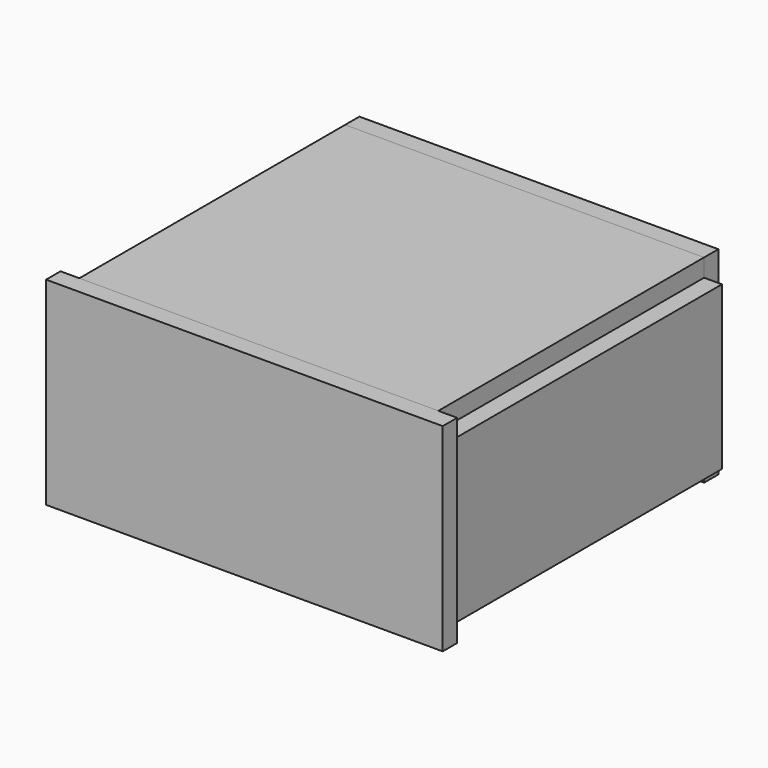
from build123d import *

# Parameters (mm, degrees)
F0_W     = 400
F0_H     = 200
F0_R     = 73
F1_DEPTH = 18
F2_W     = 362
F2_H     = 18
F3_DEPTH = 335
F4_W     = 335
F4_H     = 164
F5_DEPTH = 18
F6_W     = 362
F6_H     = 200
F7_DEPTH = 18
F8_W     = 400
F8_H     = 200
F9_DEPTH = 0.2


with BuildPart() as f1:
    # F0 (on Front) → F1 (new body)
    with BuildSketch(Plane.XZ):
        Rectangle(F0_W, F0_H)
        Circle(F0_R, mode=Mode.SUBTRACT)
    extrude(amount=F1_DEPTH)


with BuildPart() as f3:
    # F2 (on face) → F3 (new body)
    with BuildSketch(Plane(origin=(0, 0, 0), x_dir=(-1, 0, 0), z_dir=(0, 1, 0))):
        with Locations((0, 91)):
            Rectangle(F2_W, F2_H)
    extrude(amount=F3_DEPTH)


with BuildPart() as f5:
    # F4 (on face) → F5 (new body)
    with BuildSketch(Plane.YZ.offset(181)):
        with Locations((167.5, 0)):
            Rectangle(F4_W, F4_H)
    extrude(amount=F5_DEPTH)


with BuildPart() as f7:
    # F6 (on face) → F7 (new body)
    with BuildSketch(Plane(origin=(0, 335, 0), x_dir=(-1, 0, 0), z_dir=(0, 1, 0))):
        Rectangle(F6_W, F6_H)
    extrude(amount=F7_DEPTH)


with BuildPart() as f9:
    # F8 (on face) → F9 (new body)
    with BuildSketch(Plane.XZ.offset(18)):
        Rectangle(F8_W, F8_H)
    extrude(amount=F9_DEPTH)


solid = Compound([f1.part, f3.part, f5.part, f7.part, f9.part])
